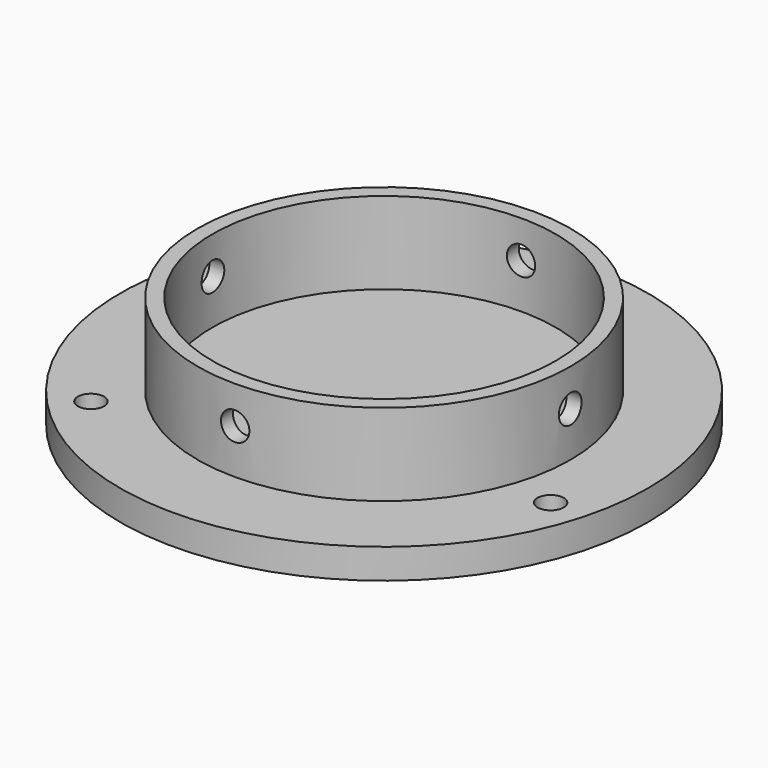
from build123d import *

# Parameters (mm, degrees)
F0_R      = 31.75
F0_R_2    = 29.21
F1_DEPTH  = 13.97
F4_R      = 44.9
F5_DEPTH  = 5.08
F6_R      = 2.413
F7_DEPTH  = 38.1
F9_D      = 4.445
F9_DEPTH  = 12.7
F10_R     = 2.413
F11_DEPTH = 50.8


with BuildPart() as f1:
    # F0 (on Top) → F1 (new body)
    with BuildSketch(Plane.XY):
        Circle(F0_R)
        Circle(F0_R_2, mode=Mode.SUBTRACT)
    extrude(amount=F1_DEPTH)

    # F4 (on Top) → F5 (join)
    with BuildSketch(Plane.XY):
        Circle(F4_R)
    extrude(amount=-F5_DEPTH)

    # F6 (on Front) → F7 (cut, symmetric)
    with BuildSketch(Plane.XZ):
        with Locations((0, 7.62)):
            Circle(F6_R)
    extrude(amount=F7_DEPTH, both=True, mode=Mode.SUBTRACT)

    # F9
    with Locations(Plane.XY):
        with Locations((-8.89, 38.032818), (-28.492387, -26.715375), (37.382387, -11.317443)):
            Hole(F9_D / 2, depth=F9_DEPTH)

    # F10 (on Right) → F11 (cut, symmetric)
    with BuildSketch(Plane.YZ):
        with Locations((0, 7.62)):
            Circle(F10_R)
    extrude(amount=F11_DEPTH, both=True, mode=Mode.SUBTRACT)


solid = f1.part
